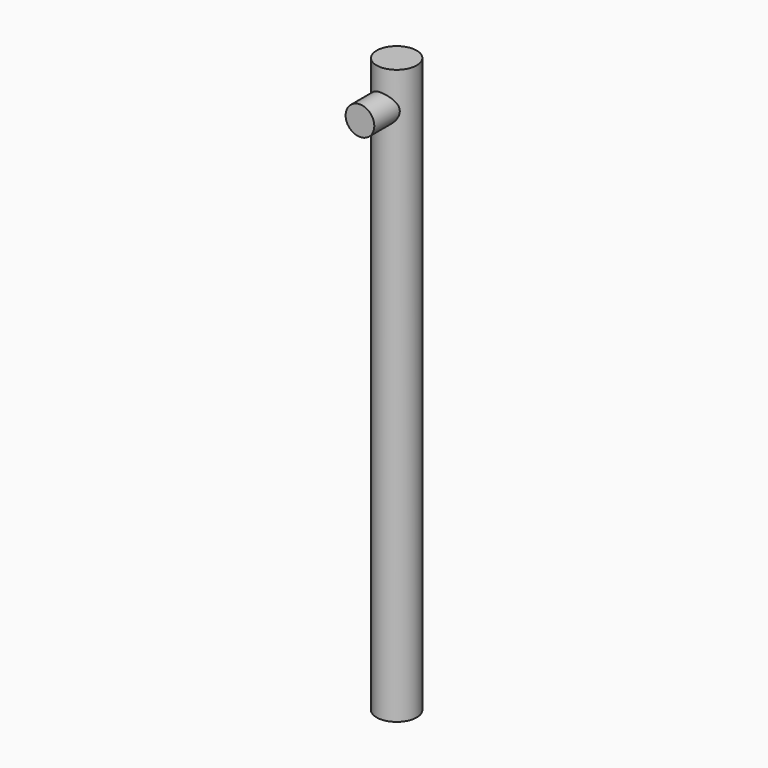
from build123d import *

# Parameters (mm, degrees)
F0_R     = 3.5
F1_DEPTH = 100
F2_R     = 2.5
F3_DEPTH = 8


with BuildPart() as f1:
    # F0 (on Top) → F1 (new body)
    with BuildSketch(Plane.XY):
        Circle(F0_R)
    extrude(amount=F1_DEPTH)

    # F2 (on Front) → F3 (join)
    with BuildSketch(Plane.XZ):
        with Locations((0, 93.634538)):
            Circle(F2_R)
    extrude(amount=F3_DEPTH)


solid = f1.part
